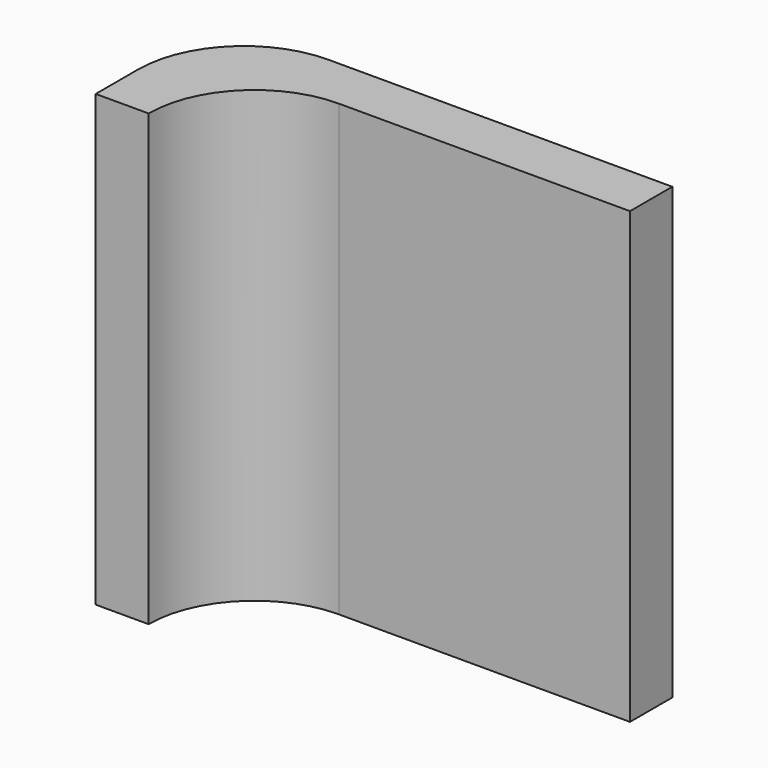
from build123d import *

# Parameters (mm, degrees)
F1_DEPTH = 17


with BuildPart() as f1:
    # F0 (on Top) → F1 (new body)
    with BuildSketch(Plane.XY):
        with BuildLine():
            Line((-18.694246, 28.693632), (-18.694246, 30.693632))
            Line((-18.694246, 30.693632), (-31.694246, 30.693632))
            ThreePointArc((-31.694246, 30.693632), (-34.522673, 29.522059), (-35.694246, 26.693632))
            Line((-35.694246, 26.693632), (-35.694246, 24.693632))
            Line((-35.694246, 24.693632), (-33.694246, 24.693632))
            ThreePointArc((-33.694246, 24.693632), (-32.522673, 27.522059), (-29.694246, 28.693632))
            Line((-29.694246, 28.693632), (-18.694246, 28.693632))
        make_face()
    extrude(amount=F1_DEPTH)


solid = f1.part
